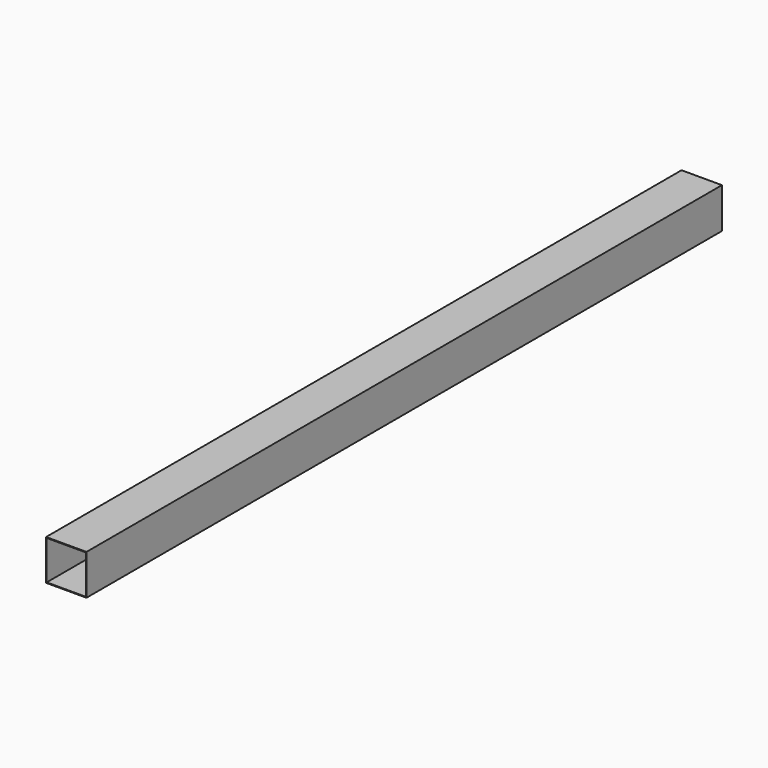
from build123d import *

# Parameters (mm, degrees)
F0_W     = 76.2
F0_H     = 76.2
F1_DEPTH = 609.6
F3_DEPTH = 914.4
F4_DEPTH = 304.8
F5_DEPTH = 584.2


with BuildPart() as f1:
    # F0 (on Front) → F1 (new body)
    with BuildSketch(Plane.XZ):
        with Locations((-79.1539917648, 51.4746750653)):
            Rectangle(F0_W, F0_H)
    extrude(amount=F1_DEPTH)

    # F2 (on face) → F3 (cut)
    with BuildSketch(Plane.XZ.offset(609.6)):
        Polygon((-42.3204526305, 88.3055701852), (-98.6881405115, 88.3055701852), (-115.9909814596, 88.3055701852), (-115.9909814596, 14.655277133), (-42.3204526305, 14.655277133), align=None)
    extrude(amount=-F3_DEPTH, mode=Mode.SUBTRACT)

    # F4 (add): a face of the model
    f4_faces = [f1.faces().sort_by_distance(p)[0] for p in [
        (-42.1316224993, -609.6, 51.4746750653),
    ]]
    extrude(f4_faces, amount=F4_DEPTH)

    # F5 (add): a face of the model
    f5_faces = [f1.faces().sort_by_distance(p)[0] for p in [
        (-42.1316224993, 0, 51.4746750653),
    ]]
    extrude(f5_faces, amount=F5_DEPTH)


solid = f1.part
